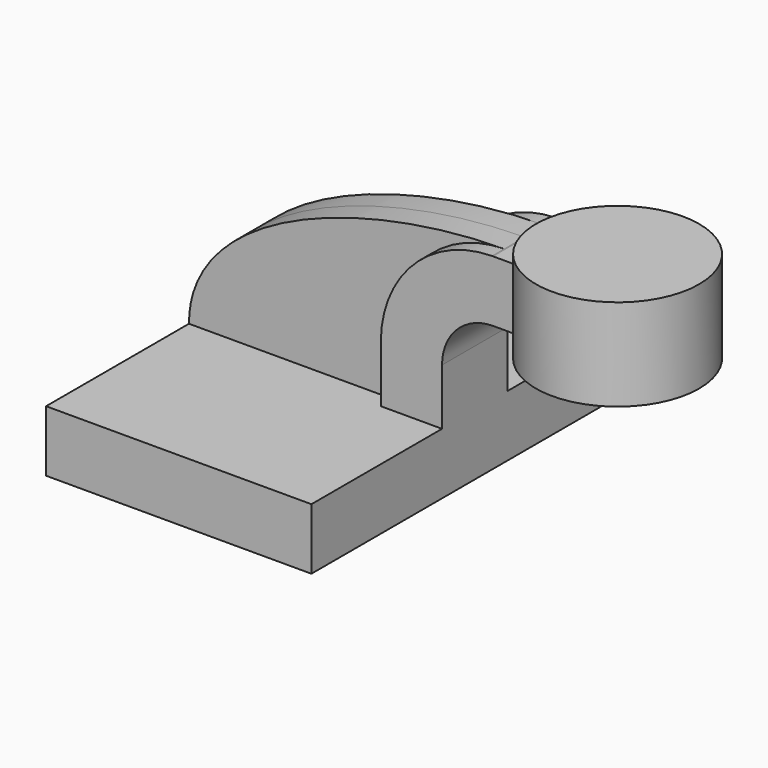
from build123d import *

# Parameters (mm, degrees)
F1_DEPTH = 63.5
F0_W     = 25.4
F0_H     = 19.05
F2_DEPTH = 12.7
F3_DEPTH = 7.9375


with BuildPart() as f1:
    # F0 (on Front) → F1 (new body, symmetric)
    with BuildSketch(Plane.XZ):
        Polygon((41.275, -9.525), (41.275, 9.525), (22.225, 9.525), (-41.275, 9.525), (-41.275, -9.525), align=None)
    extrude(amount=F1_DEPTH, both=True)

    # F0 (on Front) → F2 (join, symmetric)
    with BuildSketch(Plane.XZ):
        with BuildLine():
            Line((22.225, 9.525), (41.275, 9.525))
            Line((41.275, 9.525), (41.275, 27.0002))
            ThreePointArc((41.275, 27.0002), (45.9246798487, 38.2255201513), (57.15, 42.8752))
            Line((57.15, 42.8752), (60.325, 42.8752))
            Line((60.325, 42.8752), (60.325, 61.9252))
            Line((60.325, 61.9252), (57.15, 61.9252))
            add(Edge.make_bspline(
                [(57.15, 61.9252), (57.0373941286, 61.9247746009), (56.9247198361, 61.9242293137), (56.8119782106, 61.9235641889)],
                knots=[0, 0, 0, 0, 0.2853238396, 0.2853238396, 0.2853238396, 0.2853238396], degree=3))
            ThreePointArc((56.8119782106, 61.9235641889), (32.3350746929, 51.5761050088), (22.225, 27.0002))
            Line((22.225, 27.0002), (22.225, 9.525))
        make_face()
        with Locations((73.025, 52.4002)):
            Rectangle(F0_W, F0_H)
    extrude(amount=F2_DEPTH, both=True)

    # F0 (on Front) → F3 (join, symmetric)
    with BuildSketch(Plane.XZ):
        with BuildLine():
            Line((-41.275, 9.525), (22.225, 9.525))
            Line((22.225, 9.525), (22.225, 27.0002))
            ThreePointArc((22.225, 27.0002), (32.3350746929, 51.5761050088), (56.8119782106, 61.9235641889))
            add(Edge.make_bspline(
                [(56.8119782106, 61.9235641889), (12.8653006287, 61.6642986017), (-41.3122228032, 43.1964478653), (-41.275, 9.525)],
                knots=[0.2853238396, 0.2853238396, 0.2853238396, 0.2853238396, 111.5045361635, 111.5045361635, 111.5045361635, 111.5045361635], degree=3))
        make_face()
    extrude(amount=F3_DEPTH, both=True)

    # F0 (on Front) → F4 (revolve)
    with BuildSketch(Plane.XZ):
        Polygon((85.725, 61.9252), (85.725, 42.8752), (85.725, 38.1), (111.125, 38.1), (111.125, 66.675), (85.725, 66.675), align=None)
    revolve(axis=Axis((85.725, 0, 52.3875), (0, 0, -1)))


solid = f1.part
